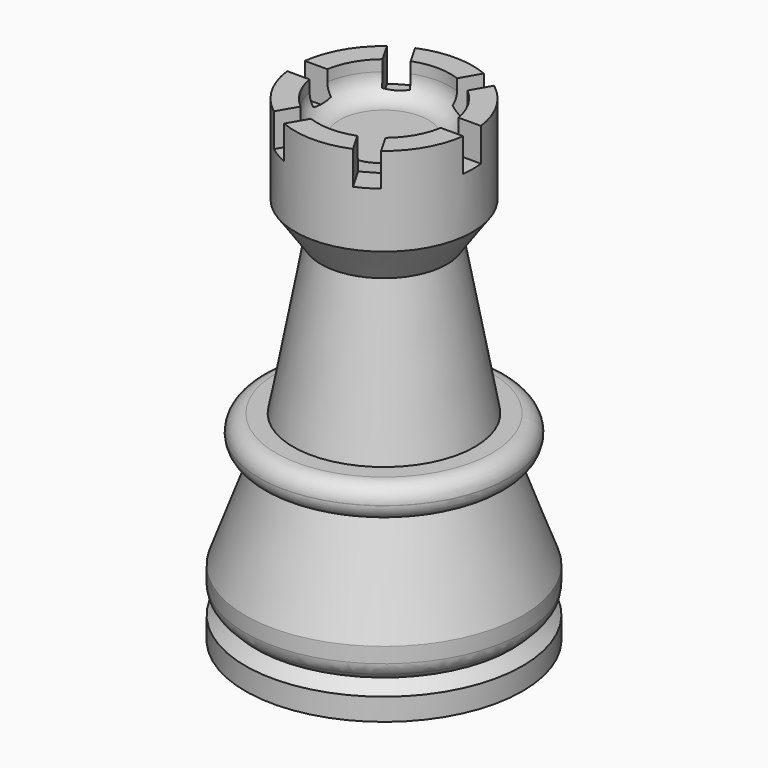
from build123d import *

# Parameters (mm, degrees)
FILLET002_R        = 1.49
FILLET003_R        = 2
SKETCH006_W        = 7.538901
SKETCH006_H        = 2
POCKET_DEPTH       = 3
POLARPATTERN_COUNT = 6
FILLET017_R        = 1.49


with BuildPart() as part:
    # Sketch001 → Revolution001 (revolve)
    with BuildSketch(Plane.XZ):
        Polygon((0, 5), (5, 5), (5, 0), (12.5, 0), (12.5, 2), (11.5, 3), (12.5, 4), (12.5, 6), (9.224268, 15), (11.224268, 15), (11.224268, 18), (8.198129, 18), (5.675519, 31.680297), (8, 35), (8, 43), (6, 43), (6, 40), (0, 40), align=None)
    revolve(axis=Axis((0, 0, 0), (0, 0, 1)))

    # Fillet002
    fillet002_edges = [part.edges().sort_by_distance(p)[0] for p in [
        (12, 0, 3.5),
        (-12.5, 0, 4),
    ]]
    fillet(fillet002_edges, radius=FILLET002_R)

    # Fillet003
    fillet003_edges = [part.edges().sort_by_distance(p)[0] for p in [
        (-6, 0, 40),
    ]]
    fillet(fillet003_edges, radius=FILLET003_R)

    # Sketch006 → Pocket (cut)
    with BuildSketch(Plane(origin=(0, 0, 43), x_dir=(-1, 0, 0), z_dir=(0, 0, 1))):
        with Locations((9.347359, 0)):
            Rectangle(SKETCH006_W, SKETCH006_H)
    pocket = extrude(amount=-POCKET_DEPTH, mode=Mode.SUBTRACT)

    # PolarPattern: Pocket ×6 about axis
    polarpattern_axis = Axis((0, 0, 43), (0, 0, 1))
    for i in range(1, POLARPATTERN_COUNT):
        add(pocket.rotate(polarpattern_axis, i * 360 / POLARPATTERN_COUNT), mode=Mode.SUBTRACT)

    # Fillet017
    fillet017_edges = [part.edges().sort_by_distance(p)[0] for p in [
        (-11.224268, 0, 18),
        (-11.224268, 0, 15),
    ]]
    fillet(fillet017_edges, radius=FILLET017_R)


solid = part.part
